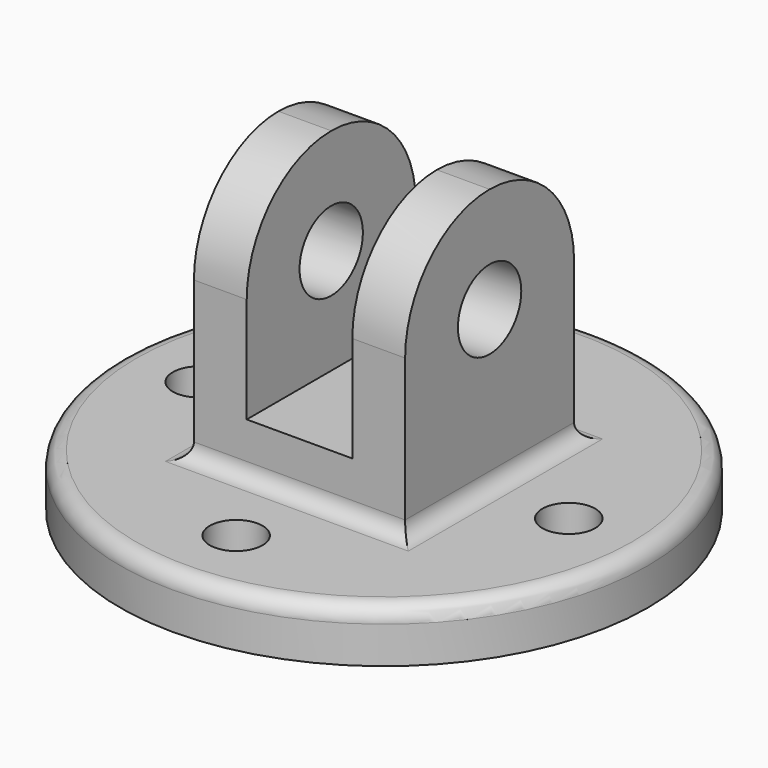
from build123d import *

# Parameters (mm, degrees)
F0_R          = 63.5
F0_R_2        = 6.35
F1_DEPTH      = 12.7
F3_DEPTH      = 25.4
F3_DEPTH_BACK = 25.4
F4_R          = 9.525
F5_DEPTH      = 88.901
F6_R          = 3.81
F7_R          = 3.81


with BuildPart() as f1:
    # F0 (on Top) → F1 (new body)
    with BuildSketch(Plane.XY):
        Circle(F0_R)
        with Locations((0, -44.45)):
            Circle(F0_R_2, mode=Mode.SUBTRACT)
        with Locations((-44.45, 0)):
            Circle(F0_R_2, mode=Mode.SUBTRACT)
        with Locations((44.45, 0)):
            Circle(F0_R_2, mode=Mode.SUBTRACT)
        with Locations((0, 44.45)):
            Circle(F0_R_2, mode=Mode.SUBTRACT)
    extrude(amount=F1_DEPTH)

    # F2 (on Front) → F3 (join, two sides)
    with BuildSketch(Plane.XZ) as f3_sk:
        Polygon((-25.4, 76.2), (-25.4, 0), (0, 0), (0, 25.4), (-12.7, 25.4), (-12.7, 76.2), align=None)
        Polygon((0, 25.4), (0, 0), (25.4, 0), (25.4, 76.2), (12.7, 76.2), (12.7, 25.4), align=None)
    extrude(amount=F3_DEPTH)
    extrude(f3_sk.sketch, amount=-F3_DEPTH_BACK)

    # F4 (on face) → F5 (cut, through all)
    with BuildSketch(Plane.YZ.offset(25.4)):
        with Locations((0, 50.8)):
            Circle(F4_R)
        with BuildLine():
            ThreePointArc((0, 76.2), (17.9605122421, 68.7605122421), (25.4, 50.8))
            Line((25.4, 50.8), (25.4, 76.2))
            Line((25.4, 76.2), (0, 76.2))
        make_face()
        with BuildLine():
            Line((-25.4, 76.2), (-25.4, 50.8))
            ThreePointArc((-25.4, 50.8), (-17.9605122421, 68.7605122421), (0, 76.2))
            Line((0, 76.2), (-25.4, 76.2))
        make_face()
    extrude(amount=-F5_DEPTH, mode=Mode.SUBTRACT)

    # F6
    f6_edges = [f1.edges().sort_by_distance(p)[0] for p in [
        (-63.5, 0, 12.7),
    ]]
    fillet(f6_edges, radius=F6_R)

    # F7
    f7_edges = [f1.edges().sort_by_distance(p)[0] for p in [
        (0, -25.4, 12.7),
        (25.4, 0, 12.7),
        (0, 25.4, 12.7),
        (-25.4, 0, 12.7),
    ]]
    fillet(f7_edges, radius=F7_R)


solid = f1.part
